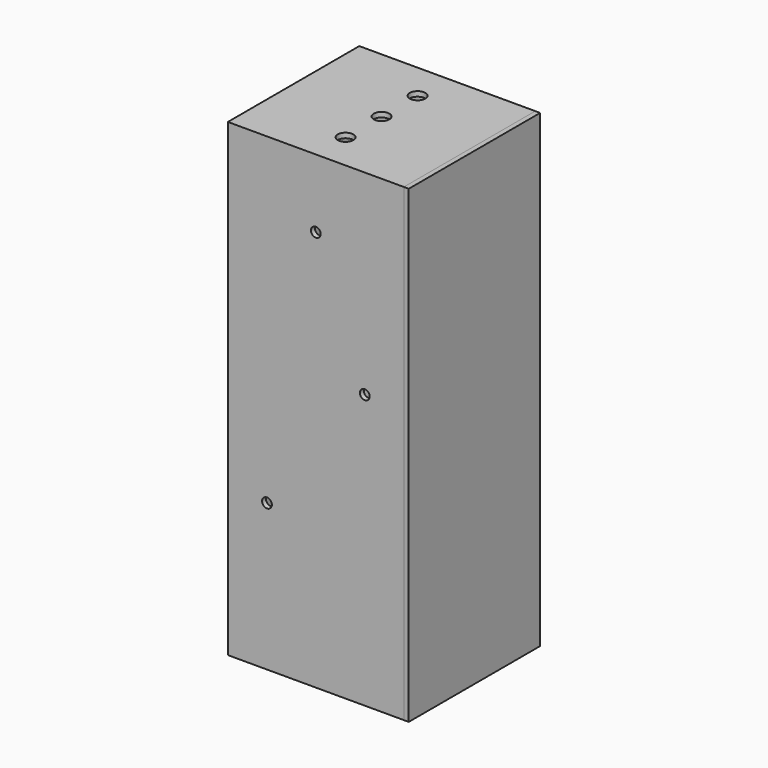
from build123d import *

# Parameters (mm, degrees)
F0_W      = 426.72
F0_H      = 1219.2
F1_DEPTH  = 457.2
F2_T      = -12.7
F4_D      = 40.64
F4_DEPTH  = 12.7
F5_D      = 40.64
F5_DEPTH  = 12.7
F6_D      = 40.64
F6_DEPTH  = 12.7
F7_W      = 426.72
F7_H      = 1219.2
F8_DEPTH  = 12.7
F10_D     = 25.4
F10_DEPTH = 12.7
F11_D     = 25.4
F11_DEPTH = 12.7
F13_D     = 25.4
F13_DEPTH = 12.7
F15_D     = 25.4
F15_DEPTH = 12.7


with BuildPart() as f1:
    # F0 (on Right) → F1 (new body)
    with BuildSketch(Plane.YZ):
        with Locations((-162.183705, 0.54552)):
            Rectangle(F0_W, F0_H)
    extrude(amount=F1_DEPTH)

    # F2
    f2_openings = [f1.faces().sort_by_distance(p)[0] for p in [
        (457.2, -162.183705, 0.54552),
    ]]
    offset(amount=F2_T, openings=f2_openings)

    # F4
    with Locations(Plane.XY.offset(610.14552)):
        with Locations((228.6, -162.183705)):
            Hole(F4_D / 2, depth=F4_DEPTH)

    # F5
    with Locations(Plane.XY.offset(610.14552)):
        with Locations((228.6, -45.343705)):
            Hole(F5_D / 2, depth=F5_DEPTH)

    # F6
    with Locations(Plane.XY.offset(610.14552)):
        with Locations((228.6, -279.023705)):
            Hole(F6_D / 2, depth=F6_DEPTH)

    # F10
    with Locations(Plane.XZ.offset(375.543705)):
        with Locations((101.6, -228.05448)):
            Hole(F10_D / 2, depth=F10_DEPTH)

    # F11
    with Locations(Plane.XZ.offset(375.543705)):
        with Locations((228.6, 432.34552), (355.6, 102.14552)):
            Hole(F11_D / 2, depth=F11_DEPTH)

    # F13
    with Locations(Plane(origin=(0, 0, 0), x_dir=(0, -1, 0), z_dir=(-1, 0, 0))):
        with Locations((162.183705, 229.14552), (162.183705, -101.05448)):
            Hole(F13_D / 2, depth=F13_DEPTH)

    # F15
    with Locations(Plane(origin=(0, 51.176295, 0), x_dir=(-1, 0, 0), z_dir=(0, 1, 0))):
        with Locations((-101.6, 432.34552), (-228.6, 102.14552), (-355.6, -228.05448)):
            Hole(F15_D / 2, depth=F15_DEPTH)


with BuildPart() as f8:
    # F7 (on face) → F8 (new body)
    with BuildSketch(Plane.YZ.offset(457.2)):
        with Locations((-162.183705, 0.54552)):
            Rectangle(F7_W, F7_H)
    extrude(amount=F8_DEPTH)


solid = Compound([f1.part, f8.part])
